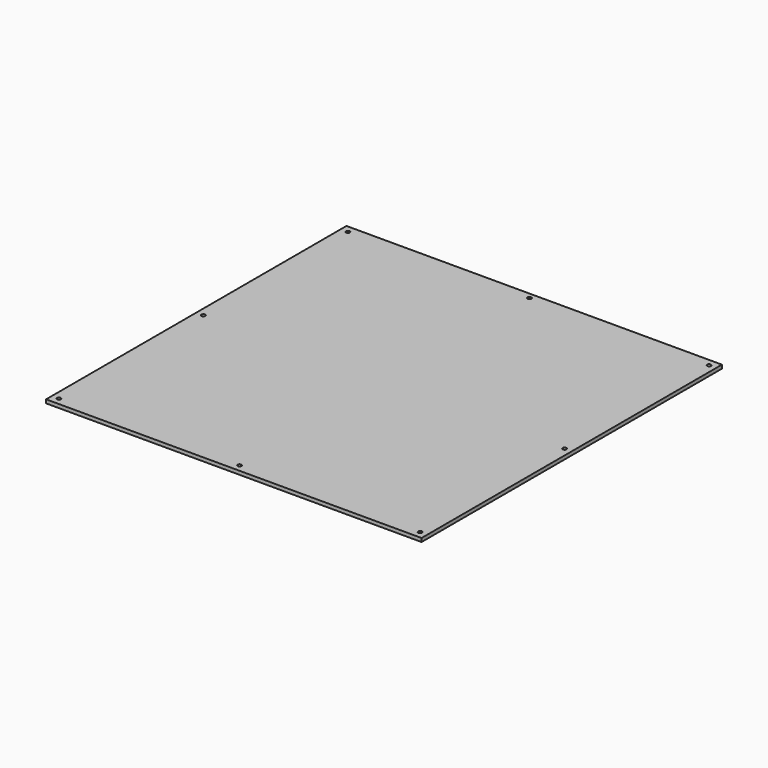
from build123d import *

# Parameters (mm, degrees)
F0_R     = 1.6
F1_DEPTH = 3


with BuildPart() as f1:
    # F0 (on Top) → F1 (new body)
    with BuildSketch(Plane.XY):
        Polygon((-151.5, 157.5), (-157.5, 157.5), (-157.5, 0), (-157.5, -157.5), (-151.5, -157.5), (0, -157.5), (151.5, -157.5), (157.5, -157.5), (157.5, 0), (157.5, 157.5), (151.5, 157.5), (0, 157.5), align=None)
        with BuildLine():
            ThreePointArc((-149.9, -151.5), (-150.368629, -152.631371), (-151.5, -153.1))
            ThreePointArc((-151.5, -153.1), (-152.631371, -150.368629), (-149.9, -151.5))
        make_face(mode=Mode.SUBTRACT)
        with BuildLine():
            ThreePointArc((1.6, -151.5), (1.131371, -152.631371), (0, -153.1))
            ThreePointArc((0, -153.1), (-1.131371, -150.368629), (1.6, -151.5))
        make_face(mode=Mode.SUBTRACT)
        with BuildLine():
            ThreePointArc((153.1, -151.5), (152.631371, -152.631371), (151.5, -153.1))
            ThreePointArc((151.5, -153.1), (150.368629, -150.368629), (153.1, -151.5))
        make_face(mode=Mode.SUBTRACT)
        with BuildLine():
            ThreePointArc((-149.9, 0), (-151.5, -1.6), (-153.1, 0))
            ThreePointArc((-153.1, 0), (-151.5, 1.6), (-149.9, 0))
        make_face(mode=Mode.SUBTRACT)
        with BuildLine():
            ThreePointArc((-149.9, 151.5), (-152.631371, 150.368629), (-151.5, 153.1))
            ThreePointArc((-151.5, 153.1), (-150.368629, 152.631371), (-149.9, 151.5))
        make_face(mode=Mode.SUBTRACT)
        with Locations((151.5, 0)):
            Circle(F0_R, mode=Mode.SUBTRACT)
        with BuildLine():
            ThreePointArc((1.6, 152.5), (-1.131371, 151.368629), (0, 154.1))
            ThreePointArc((0, 154.1), (1.131371, 153.631371), (1.6, 152.5))
        make_face(mode=Mode.SUBTRACT)
        with BuildLine():
            ThreePointArc((153.1, 151.5), (150.368629, 150.368629), (151.5, 153.1))
            ThreePointArc((151.5, 153.1), (152.631371, 152.631371), (153.1, 151.5))
        make_face(mode=Mode.SUBTRACT)
    extrude(amount=F1_DEPTH)


solid = f1.part
